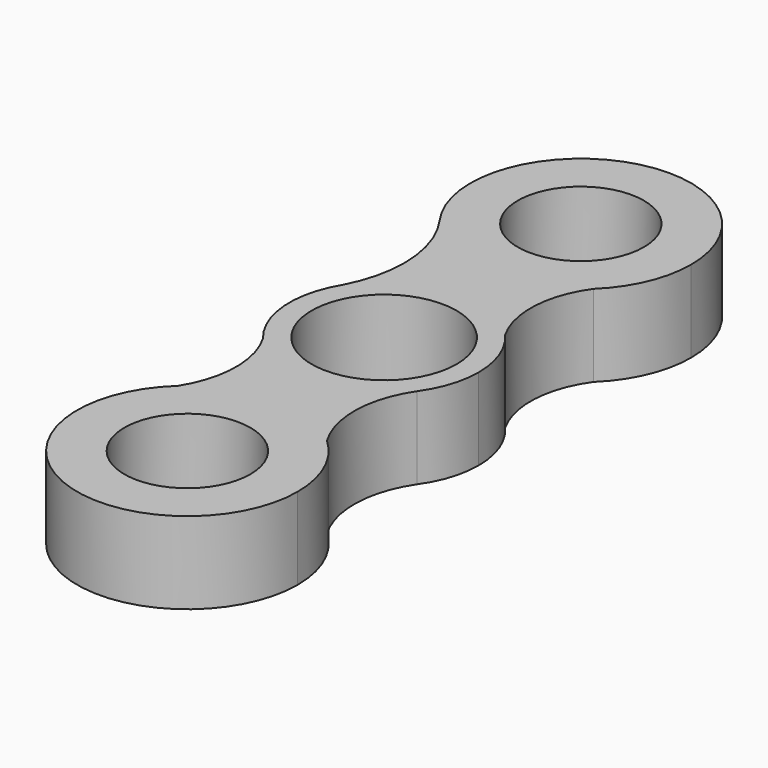
from build123d import *

# Parameters (mm, degrees)
F0_R     = 10
F0_R_2   = 11.5
F1_DEPTH = 13


with BuildPart() as f1:
    # F0 (on Top) → F1 (new body)
    with BuildSketch(Plane.XY):
        with BuildLine():
            ThreePointArc((12.111219, 26.367962), (16.096526, 32.133281), (17.5, 39))
            ThreePointArc((17.5, 39), (-5.334249, 55.667207), (-14.24809, 28.839196))
            ThreePointArc((-14.24809, 28.839196), (-1.633494, 21.576404), (12.111219, 26.367962))
        make_face()
        with Locations((0, 39)):
            Circle(F0_R, mode=Mode.SUBTRACT)
        with BuildLine():
            ThreePointArc((11.283926, 9.882966), (-1.294732, 14.944018), (-12.815525, 7.795019))
            ThreePointArc((-12.815525, 7.795019), (-14.959668, -1.099247), (-11.53846, -9.584568))
            ThreePointArc((-11.53846, -9.584568), (0.525844, -14.99078), (12.181685, -8.752517))
            ThreePointArc((12.181685, -8.752517), (14.278047, -4.597539), (15, 0))
            ThreePointArc((15, 0), (14.040279, 5.279257), (11.283926, 9.882966))
        make_face()
        Circle(F0_R_2, mode=Mode.SUBTRACT)
        with BuildLine():
            ThreePointArc((12.111219, 26.367962), (16.096526, 32.133281), (17.5, 39))
            ThreePointArc((17.5, 39), (-5.334249, 55.667207), (-14.24809, 28.839196))
            ThreePointArc((-14.24809, 28.839196), (-1.633494, 21.576404), (12.111219, 26.367962))
        make_face()
        with Locations((0, 39)):
            Circle(F0_R, mode=Mode.SUBTRACT)
        with BuildLine():
            ThreePointArc((12.111219, 26.367962), (-1.633494, 21.576404), (-14.24809, 28.839196))
            ThreePointArc((-14.24809, 28.839196), (-10.554394, 18.519793), (-12.815525, 7.795019))
            ThreePointArc((-12.815525, 7.795019), (-1.294732, 14.944018), (11.283926, 9.882966))
            ThreePointArc((11.283926, 9.882966), (9.280567, 18.246761), (12.111219, 26.367962))
        make_face()
        with BuildLine():
            ThreePointArc((11.283926, 9.882966), (-1.294732, 14.944018), (-12.815525, 7.795019))
            ThreePointArc((-12.815525, 7.795019), (-14.959668, -1.099247), (-11.53846, -9.584568))
            ThreePointArc((-11.53846, -9.584568), (0.525844, -14.99078), (12.181685, -8.752517))
            ThreePointArc((12.181685, -8.752517), (14.278047, -4.597539), (15, 0))
            ThreePointArc((15, 0), (14.040279, 5.279257), (11.283926, 9.882966))
        make_face()
        Circle(F0_R_2, mode=Mode.SUBTRACT)
        with BuildLine():
            ThreePointArc((12.181685, -8.752517), (0.525844, -14.99078), (-11.53846, -9.584568))
            ThreePointArc((-11.53846, -9.584568), (-9.368827, -17.888551), (-11.835438, -26.109212))
            ThreePointArc((-11.835438, -26.109212), (-0.036151, -21.500037), (11.782078, -26.060424))
            ThreePointArc((11.782078, -26.060424), (9.453579, -17.348097), (12.181685, -8.752517))
        make_face()
        with BuildLine():
            ThreePointArc((11.782078, -26.060424), (-0.036151, -21.500037), (-11.835438, -26.109212))
            ThreePointArc((-11.835438, -26.109212), (-7.040236, -55.021394), (17.5, -39))
            ThreePointArc((17.5, -39), (16.006817, -31.926683), (11.782078, -26.060424))
        make_face()
        with Locations((0, -39)):
            Circle(F0_R, mode=Mode.SUBTRACT)
        with BuildLine():
            ThreePointArc((12.181685, -8.752517), (0.525844, -14.99078), (-11.53846, -9.584568))
            ThreePointArc((-11.53846, -9.584568), (-9.368827, -17.888551), (-11.835438, -26.109212))
            ThreePointArc((-11.835438, -26.109212), (-0.036151, -21.500037), (11.782078, -26.060424))
            ThreePointArc((11.782078, -26.060424), (9.453579, -17.348097), (12.181685, -8.752517))
        make_face()
        with BuildLine():
            ThreePointArc((12.111219, 26.367962), (-1.633494, 21.576404), (-14.24809, 28.839196))
            ThreePointArc((-14.24809, 28.839196), (-10.554394, 18.519793), (-12.815525, 7.795019))
            ThreePointArc((-12.815525, 7.795019), (-1.294732, 14.944018), (11.283926, 9.882966))
            ThreePointArc((11.283926, 9.882966), (9.280567, 18.246761), (12.111219, 26.367962))
        make_face()
    extrude(amount=F1_DEPTH)


solid = f1.part
